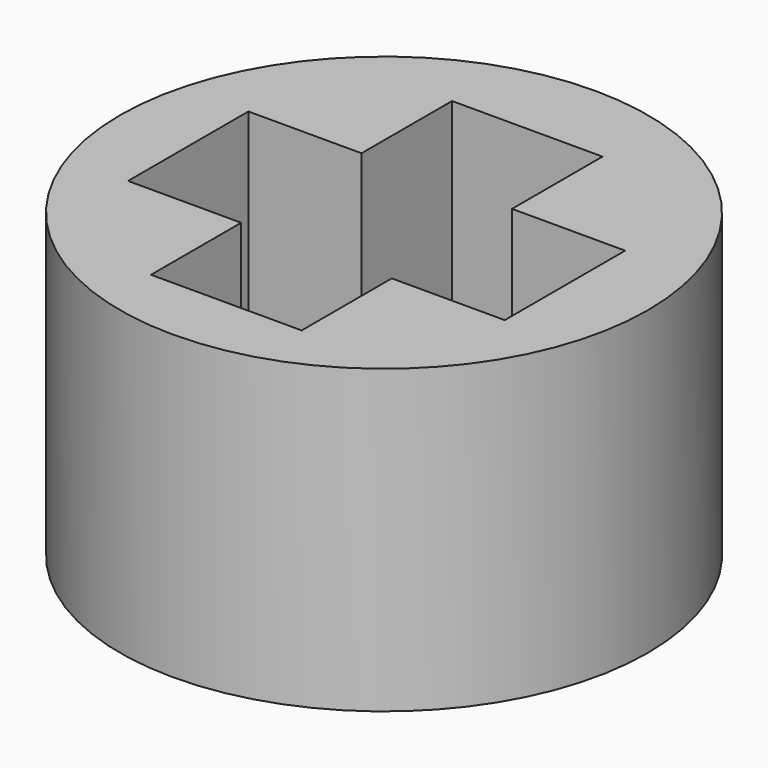
from build123d import *

# Parameters (mm, degrees)
F0_R     = 3.5
F1_DEPTH = 4
F3_DEPTH = 4


with BuildPart() as f1:
    # F0 (on Top) → F1 (new body)
    with BuildSketch(Plane.XY):
        Circle(F0_R)
    extrude(amount=F1_DEPTH)

    # F2 (on face) → F3 (cut)
    with BuildSketch(Plane.XY.offset(4)):
        Polygon((-0.001765, -2.594536), (0.983678, -2.594536), (0.983678, -1.100675), (2.48161, -1.100675), (2.48161, 0.894738), (0.98161, 0.894738), (0.98161, 2.394738), (-1.013803, 2.394738), (-1.013803, 0.894738), (-2.513803, 0.894738), (-2.513803, -1.100675), (-1.013803, -1.100675), (-1.013803, -2.594536), align=None)
    extrude(amount=-F3_DEPTH, mode=Mode.SUBTRACT)


solid = f1.part
